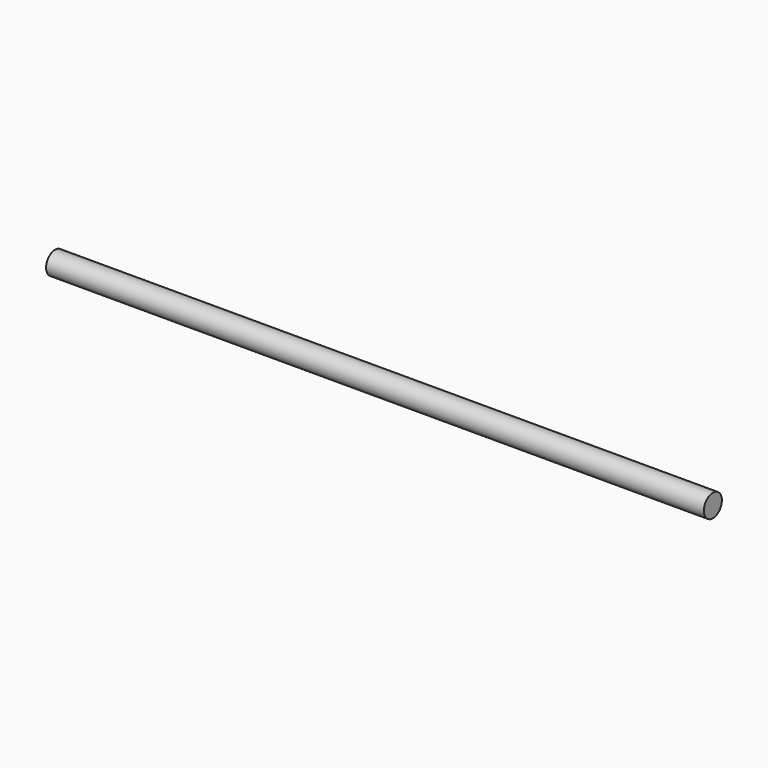
from build123d import *

# Parameters (mm, degrees)
SKETCH_R  = 6
PAD_DEPTH = 350


with BuildPart() as part:
    # Sketch → Pad (new body)
    with BuildSketch(Plane.YZ):
        Circle(SKETCH_R)
    extrude(amount=PAD_DEPTH)


solid = part.part
